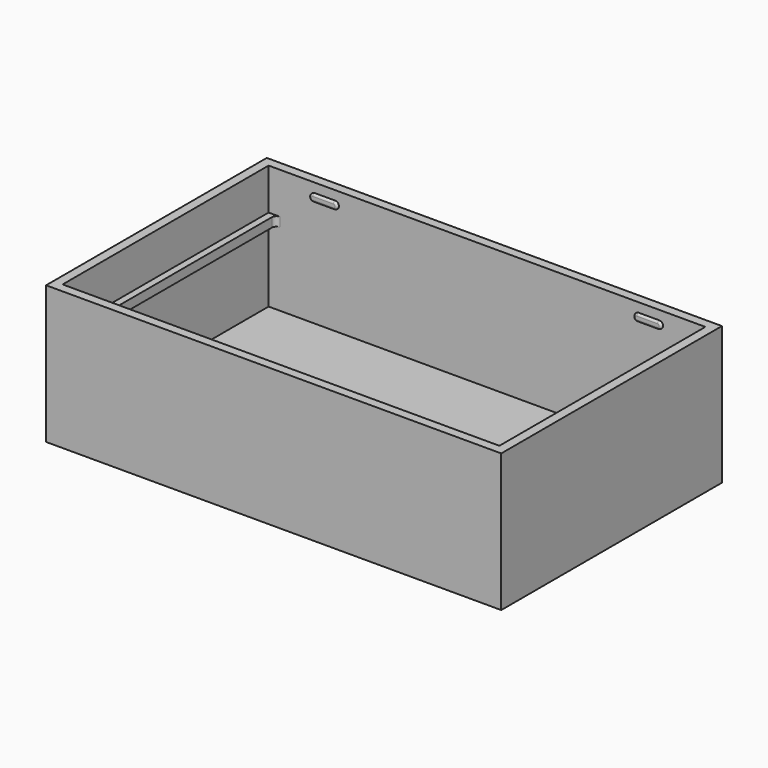
from build123d import *

# Parameters (mm, degrees)
SKETCH003_W     = 99
SKETCH003_H     = 60
PAD002_DEPTH    = 30
SKETCH004_W     = 95
SKETCH004_H     = 56
POCKET001_DEPTH = 27
PAD003_DEPTH    = 0.5
PAD004_DEPTH    = 0.5
SKETCH007_W     = 56
SKETCH007_H     = 2
PAD005_DEPTH    = 1.5
SKETCH008_W     = 56
SKETCH008_H     = 2
PAD006_DEPTH    = 1.5
FILLET_R        = 1
FILLET001_R     = 0.45


with BuildPart() as part:
    # Sketch003 → Pad002 (new body)
    with BuildSketch(Plane.XY):
        Rectangle(SKETCH003_W, SKETCH003_H)
    extrude(amount=PAD002_DEPTH)

    # Sketch004 (on Face6 of Pad002) → Pocket001 (cut)
    with BuildSketch(Plane.XY.offset(30)):
        Rectangle(SKETCH004_W, SKETCH004_H)
    extrude(amount=-POCKET001_DEPTH, mode=Mode.SUBTRACT)

    # Sketch005 (on Face8 of Pocket001) → Pad003 (join)
    with BuildSketch(Plane.XZ.offset(-28)):
        with BuildLine():
            ThreePointArc((-37.5, 28), (-38.3, 27.2), (-37.5, 26.4))
            Line((-37.5, 26.4), (-33, 26.4))
            ThreePointArc((-33, 26.4), (-32.2, 27.2), (-33, 28))
            Line((-37.5, 28), (-33, 28))
        make_face()
        with BuildLine():
            ThreePointArc((33, 28), (32.2, 27.2), (33, 26.4))
            Line((33, 26.4), (37.5, 26.4))
            ThreePointArc((37.5, 26.4), (38.3, 27.2), (37.5, 28))
            Line((33, 28), (37.5, 28))
        make_face()
    extrude(amount=PAD003_DEPTH)

    # Sketch006 (on Face10 of Pad003) → Pad004 (join)
    with BuildSketch(Plane(origin=(0, -28, 0), x_dir=(-1, 0, 0), z_dir=(0, 1, 0))):
        with BuildLine():
            ThreePointArc((-37.5, 28), (-38.3, 27.2), (-37.5, 26.4))
            Line((-37.5, 26.4), (-33, 26.4))
            ThreePointArc((-33, 26.4), (-32.2, 27.2), (-33, 28))
            Line((-37.5, 28), (-33, 28))
        make_face()
        with BuildLine():
            ThreePointArc((33, 28), (32.2, 27.2), (33, 26.4))
            Line((33, 26.4), (37.5, 26.4))
            ThreePointArc((37.5, 26.4), (38.3, 27.2), (37.5, 28))
            Line((33, 28), (37.5, 28))
        make_face()
    extrude(amount=PAD004_DEPTH)

    # Sketch007 (on Face7 of Pad004) → Pad005 (join)
    with BuildSketch(Plane(origin=(47.5, 0, 0), x_dir=(0, -1, 0), z_dir=(-1, 0, 0))):
        with Locations((0, 20)):
            Rectangle(SKETCH007_W, SKETCH007_H)
    extrude(amount=PAD005_DEPTH)

    # Sketch008 (on Face9 of Pad005) → Pad006 (join)
    with BuildSketch(Plane.YZ.offset(-47.5)):
        with Locations((0, 20)):
            Rectangle(SKETCH008_W, SKETCH008_H)
    extrude(amount=PAD006_DEPTH)

    # Fillet
    fillet_edges = [part.edges().sort_by_distance(p)[0] for p in [
        (-46, 28, 20),
        (-46, -28, 20),
        (46, 28, 20),
        (46, -28, 20),
    ]]
    fillet(fillet_edges, radius=FILLET_R)

    # Fillet001
    fillet001_edges = [part.edges().sort_by_distance(p)[0] for p in [
        (-38.3, 27.5, 27.2),
        (-35.25, 27.5, 26.4),
        (-32.2, 27.5, 27.2),
        (-35.25, 27.5, 28),
        (32.2, 27.5, 27.2),
        (35.25, 27.5, 26.4),
        (38.3, 27.5, 27.2),
        (35.25, 27.5, 28),
        (38.3, -27.5, 27.2),
        (35.25, -27.5, 26.4),
        (32.2, -27.5, 27.2),
        (35.25, -27.5, 28),
        (-32.2, -27.5, 27.2),
        (-35.25, -27.5, 26.4),
        (-38.3, -27.5, 27.2),
        (-35.25, -27.5, 28),
    ]]
    fillet(fillet001_edges, radius=FILLET001_R)


solid = part.part
